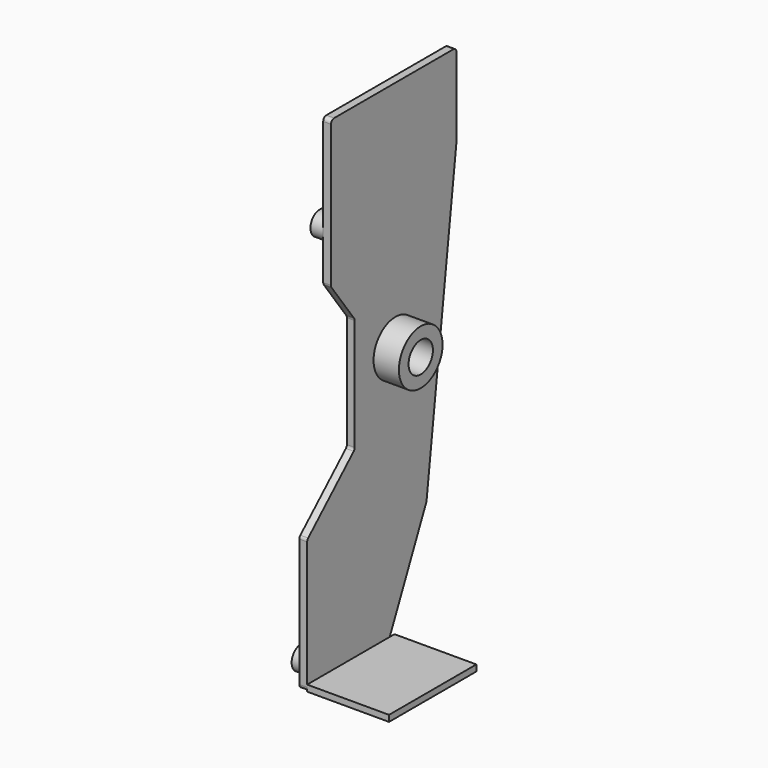
from build123d import *

# Parameters (mm, degrees)
PAD_DEPTH             = 2
PCB_SKETCH_F9E005_R   = 3
PCB_SKETCH_F9E005_R_2 = 1.65
PAD003_DEPTH          = 3.3
SKETCH_W              = 21
SKETCH_H              = 28
PAD015_DEPTH          = 1.6
SKETCH017_R           = 7
SKETCH017_R_2         = 3.9
PAD016_DEPTH          = 6.5


with BuildPart() as part:
    # PCB_Sketch_f9e4 → Pad (new body)
    with BuildSketch(Plane.ZY):
        with BuildLine():
            Line((48.934205, 15.25), (77.594554, 15.25))
            ThreePointArc((77.594554, 15.25), (77.970292, 15.176729), (78.290965, 14.967643))
            Line((78.290965, 14.967643), (88.036374, 7.842738))
            ThreePointArc((88.626567, 7.65), (88.316134, 7.699405), (88.036374, 7.842738))
            Line((125, 7.65), (88.626567, 7.65))
            ThreePointArc((126, 8.65), (125.707107, 7.942893), (125, 7.65))
            Line((126, 8.65), (126, 45.95))
            Line((126, 45.95), (126, 46.85))
            ThreePointArc((125, 47.85), (125.707107, 47.557107), (126, 46.85))
            Line((104.561886, 47.85), (125, 47.85))
            ThreePointArc((104.438586, 47.842369), (104.500118, 47.84809), (104.561886, 47.85))
            Line((104.438586, 47.842369), (27.548891, 38.288977))
            ThreePointArc((27.250327, 38.20537), (27.396349, 38.258815), (27.548891, 38.288977))
            Line((27.250327, 38.20537), (0.583058, 26.017458))
            ThreePointArc((0, 25.108525), (0.158304, 25.648452), (0.583058, 26.017458))
            Line((0, 25.108525), (0, 1))
            ThreePointArc((1, 0), (0.292893, 0.292893), (0, 1))
            Line((1, 0), (33.815795, 0))
            ThreePointArc((34.546452, 0.317255), (34.214075, 0.082738), (33.815795, 0))
            Line((34.546452, 0.317255), (48.203548, 14.932745))
            ThreePointArc((48.203548, 14.932745), (48.535925, 15.167262), (48.934205, 15.25))
        make_face()
    extrude(amount=PAD_DEPTH)

    # PCB_Sketch_f9e005 (on Face21 of Pad) → Pad003 (join)
    with BuildSketch(Plane.ZY.offset(2)):
        with Locations((4.15, 23.166726)):
            Circle(PCB_SKETCH_F9E005_R)
        with Locations((4.15, 23.166726)):
            Circle(PCB_SKETCH_F9E005_R_2, mode=Mode.SUBTRACT)
        with Locations((4.15, 4.65)):
            Circle(PCB_SKETCH_F9E005_R)
        with Locations((4.15, 4.65)):
            Circle(PCB_SKETCH_F9E005_R_2, mode=Mode.SUBTRACT)
        with Locations((95.5, 43.35)):
            Circle(PCB_SKETCH_F9E005_R)
        with Locations((95.5, 43.35)):
            Circle(PCB_SKETCH_F9E005_R_2, mode=Mode.SUBTRACT)
        with Locations((99.833274, 10.683274)):
            Circle(PCB_SKETCH_F9E005_R)
        with Locations((99.833274, 10.683274)):
            Circle(PCB_SKETCH_F9E005_R_2, mode=Mode.SUBTRACT)
    extrude(amount=PAD003_DEPTH)

    # Sketch → Pad015 (join)
    with BuildSketch(Plane.XY):
        with Locations((10.5, 14)):
            Rectangle(SKETCH_W, SKETCH_H)
    extrude(amount=PAD015_DEPTH)

    # Sketch017 (on Face4 of Pad015) → Pad016 (join)
    with BuildSketch(Plane(origin=(0, 0, 0), x_dir=(0, 0, 1), z_dir=(1, 0, 0))):
        with Locations((66.139557, -28.292141)):
            Circle(SKETCH017_R)
        with Locations((66.139557, -28.292141)):
            Circle(SKETCH017_R_2, mode=Mode.SUBTRACT)
    extrude(amount=PAD016_DEPTH)


solid = part.part
